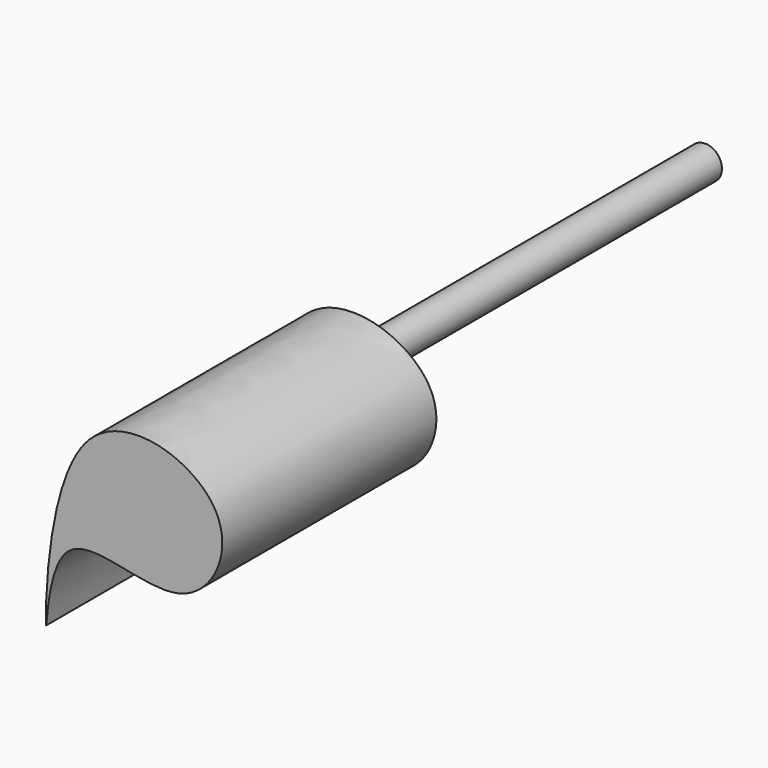
from build123d import *

# Parameters (mm, degrees)
F1_DEPTH = 170.0535044074
F2_R     = 10.634836536
F3_DEPTH = 292.0529395342


with BuildPart() as f1:
    # F0 (on Front) → F1 (new body)
    with BuildSketch(Plane.XZ):
        with BuildLine():
            add(Edge.make_bspline(
                [(-49.0051805973, -45.5326661468), (-48.5603895564, -45.6212266539), (-47.4172904766, 30.5683158261), (42.7749757096, -24.3179031305), (84.4003463523, 64.1834174101), (-50.6762083667, 109.2430031558), (-49.7009506863, -45.3941342379), (-49.0051805973, -45.5326661468)],
                knots=[0, 0, 0, 0, 0.1610628745, 0.3590982797, 0.5360395824, 0.7480553334, 1, 1, 1, 1], degree=3))
        make_face()
    extrude(amount=-F1_DEPTH)

    # F2 (on face) → F3 (join)
    with BuildSketch(Plane(origin=(0, 170.0535044074, 0), x_dir=(-1, 0, 0), z_dir=(0, 1, 0))):
        with Locations((0, 41.4630919695)):
            Circle(F2_R)
    extrude(amount=F3_DEPTH)


solid = f1.part
